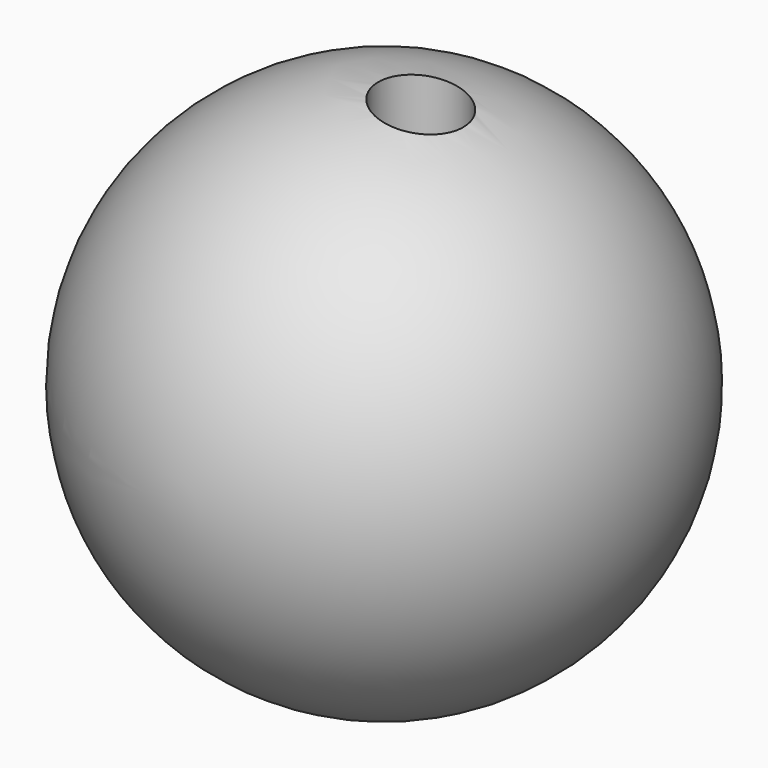
from build123d import *

# Parameters (mm, degrees)
F8_R      = 1.25
F9_DEPTH  = 36.001
F10_R     = 4.75
F10_R_2   = 1.25
F11_DEPTH = 6
F13_R     = 2.9
F14_DEPTH = 4


with BuildPart() as f2:
    # F0 (on Top) → F2 (revolve)
    with BuildSketch(Plane.XY):
        with BuildLine():
            Line((0, -18), (0, 18))
            ThreePointArc((0, 18), (-18, 0), (0, -18))
        make_face()
    revolve(axis=Axis((0, -0.836778, 0), (0, -1, 0)))

    # F8 (on offset) → F9 (cut, through all)
    with BuildSketch(Plane.XY.offset(18)):
        with Locations((2.5, 0)):
            Circle(F8_R)
    extrude(amount=-F9_DEPTH, mode=Mode.SUBTRACT)

    # F10 (on offset) → F11 (cut)
    with BuildSketch(Plane.XY.offset(-18)):
        Circle(F10_R)
        with Locations((2.5, 0)):
            Circle(F10_R_2, mode=Mode.SUBTRACT)
    extrude(amount=F11_DEPTH, mode=Mode.SUBTRACT)

    # F13 (on offset) → F14 (cut)
    with BuildSketch(Plane.XY.offset(18)):
        with Locations((2.5, 0)):
            Circle(F13_R)
    extrude(amount=-F14_DEPTH, mode=Mode.SUBTRACT)


solid = f2.part
